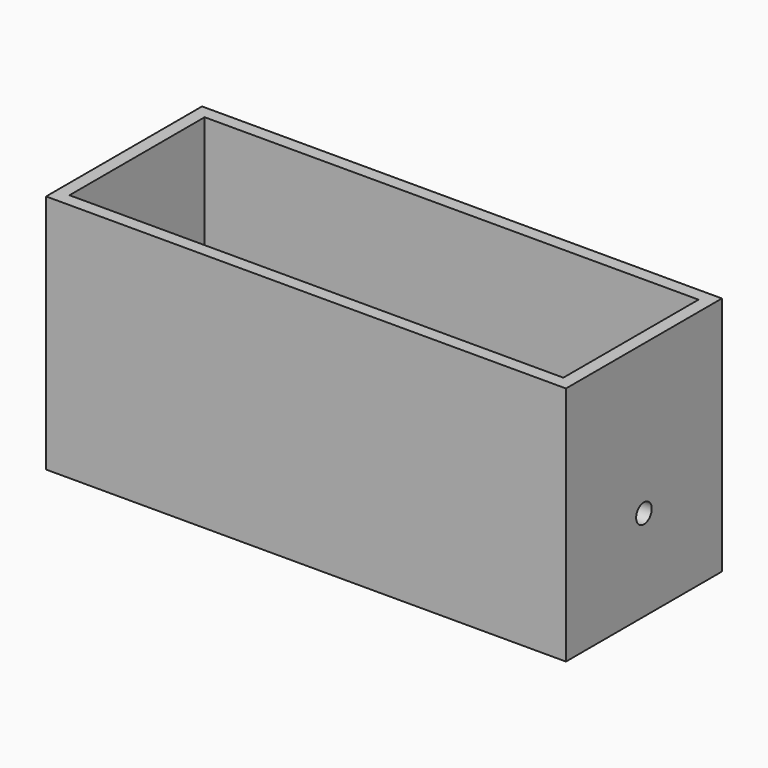
from build123d import *

# Parameters (mm, degrees)
F0_W     = 80
F0_H     = 30
F1_DEPTH = 37
F2_T     = -2
F4_R     = 1.5
F5_DEPTH = 25
F6_R     = 1.5
F7_DEPTH = 3


with BuildPart() as f1:
    # F0 (on Top) → F1 (new body)
    with BuildSketch(Plane.XY):
        with Locations((1.579888, 0)):
            Rectangle(F0_W, F0_H)
    extrude(amount=F1_DEPTH)

    # F2
    f2_openings = [f1.faces().sort_by_distance(p)[0] for p in [
        (1.579888, 0, 37),
    ]]
    offset(amount=F2_T, openings=f2_openings)

    # F4 (on face) → F5 (cut)
    with BuildSketch(Plane.YZ.offset(41.579888)):
        with Locations((0, 14)):
            Circle(F4_R)
    extrude(amount=-F5_DEPTH, mode=Mode.SUBTRACT)

    # F6 (on face) → F7 (cut)
    with BuildSketch(Plane(origin=(-38.420112, 0, 0), x_dir=(0, -1, 0), z_dir=(-1, 0, 0))):
        with Locations((0, 14)):
            Circle(F6_R)
    extrude(amount=-F7_DEPTH, mode=Mode.SUBTRACT)


solid = f1.part
